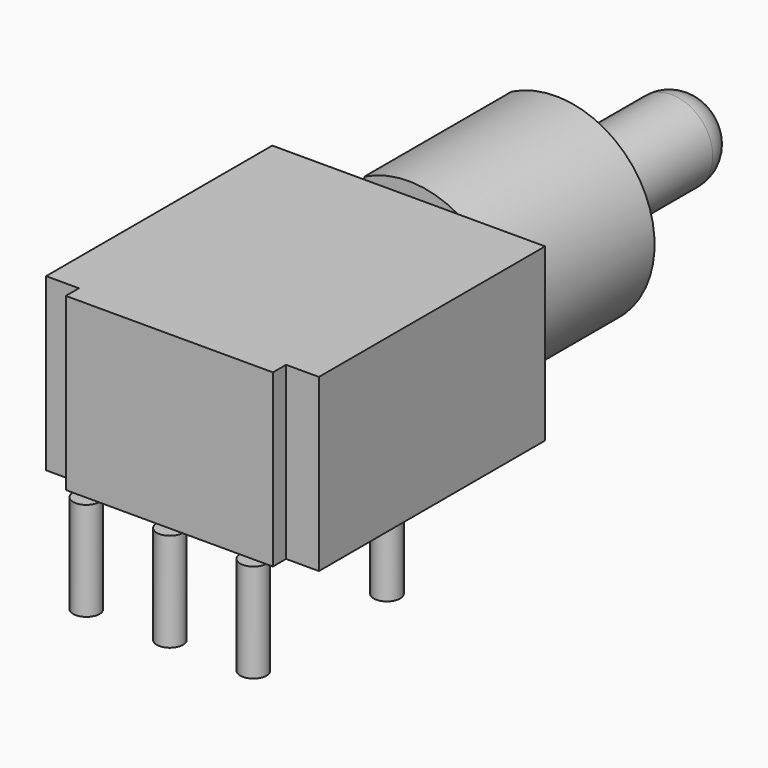
from build123d import *

# Parameters (mm, degrees)
PAD_DEPTH    = 5.2
SKETCH001_R  = 0.4
PAD001_DEPTH = 3
PAD002_DEPTH = 5.6
SKETCH003_R  = 1.25
PAD003_DEPTH = 5.4
FILLET_R     = 1


with BuildPart() as part:
    # Sketch → Pad (new body)
    with BuildSketch(Plane.XY):
        Polygon((-4.15, 4), (4.15, 4), (4.15, -4.6), (3.15, -4.6), (3.15, -5.1), (-3.15, -5.1), (-3.15, -4.6), (-4.15, -4.6), align=None)
    extrude(amount=PAD_DEPTH)

    # Sketch001 → Pad001 (join)
    with BuildSketch(Plane.XY):
        with Locations((-2.54, 0)):
            Circle(SKETCH001_R)
        with Locations((2.54, 0)):
            Circle(SKETCH001_R)
        with Locations((-2.54, -5.08)):
            Circle(SKETCH001_R)
        with Locations((2.54, -5.08)):
            Circle(SKETCH001_R)
        with Locations((0, -5.08)):
            Circle(SKETCH001_R)
    extrude(amount=-PAD001_DEPTH)

    # Sketch002 (on DatumPlane) → Pad002 (join)
    with BuildSketch(Plane(origin=(0, 4, 0), x_dir=(-1, 0, 0), z_dir=(0, 1, 0))):
        with BuildLine():
            ThreePointArc((1.35, 5.279086), (-3, 2.6), (1.35, -0.079086))
            Line((1.35, 5.279086), (1.35, -0.079086))
        make_face()
    extrude(amount=PAD002_DEPTH)

    # Sketch003 (on DatumPlane) → Pad003 (join)
    with BuildSketch(Plane(origin=(0, 9.6, 0), x_dir=(-1, 0, 0), z_dir=(0, 1, 0))):
        with Locations((0, 2.6)):
            Circle(SKETCH003_R)
    extrude(amount=PAD003_DEPTH)

    # Fillet
    fillet_edges = [part.edges().sort_by_distance(p)[0] for p in [
        (1.25, 15, 2.6),
    ]]
    fillet(fillet_edges, radius=FILLET_R)


solid = part.part
